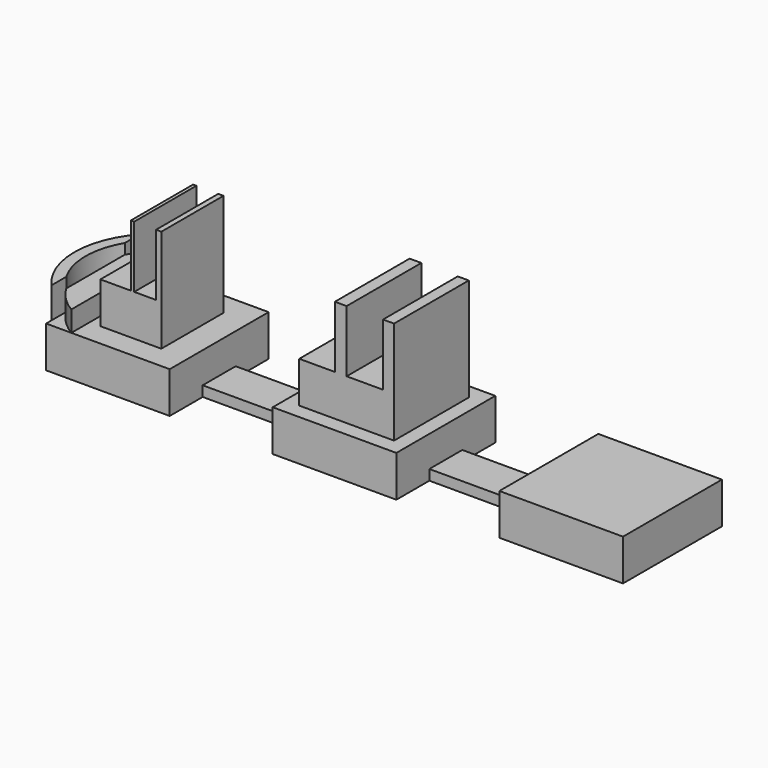
from build123d import *

# Parameters (mm, degrees)
F0_W      = 15
F0_H      = 10
F1_DEPTH  = 10
F0_W_2    = 25
F2_DEPTH  = 2.5
F4_DEPTH  = 5
F5_DEPTH  = 7.5
F6_W      = 0.8094720542
F6_H      = 18.8618451357
F6_W_2    = 1.2870579958
F7_DEPTH  = 25
F6_W_3    = 7.3937214911
F6_W_4    = 5.2971914411
F8_DEPTH  = 10
F9_W      = 2.8573467862
F9_H      = 22.6669162512
F9_W_2    = 2.6768604293
F10_DEPTH = 25
F9_W_3    = 8.6461429019
F9_W_4    = 8.8266292587
F11_DEPTH = 10


with BuildPart() as f1:
    # F0 (on Top) → F1 (new body)
    with BuildSketch(Plane.XY):
        Polygon((-55, 5), (-40, 5), (-40, 15), (-70, 15), (-70, -15), (-40, -15), (-40, -5), (-55, -5), align=None)
        with Locations((-47.5, 0)):
            Rectangle(F0_W, F0_H)
    extrude(amount=F1_DEPTH)

    # F3 (on face) → F4 (join)
    with BuildSketch(Plane.XY.offset(10)):
        with BuildLine():
            Line((-63.8738188665, -15), (-63.8738188665, 15))
            ThreePointArc((-63.8738188665, 15), (-67.3236492419, 12.3236492419), (-70, 8.8738188665))
            Line((-70, 8.8738188665), (-70, -8.8738188665))
            ThreePointArc((-70, -8.8738188665), (-67.3236492419, -12.3236492419), (-63.8738188665, -15))
        make_face()
    extrude(amount=F4_DEPTH)

    # F6 (on face) → F7 (join)
    with BuildSketch(Plane.XY.offset(10)):
        with Locations((-53.4769240767, 0)):
            Rectangle(F6_W, F6_H)
        with Locations((-47.1314676106, 0)):
            Rectangle(F6_W_2, F6_H)
    extrude(amount=F7_DEPTH)

    # F6 (on face) → F8 (join)
    with BuildSketch(Plane.XY.offset(10)):
        with Locations((-57.5785208493, 0)):
            Rectangle(F6_W_3, F6_H)
        with Locations((-50.423592329, 0)):
            Rectangle(F6_W_4, F6_H)
    extrude(amount=F8_DEPTH)


with BuildPart() as f1b:
    # F0 (on Top) → F1, piece 2 (new body)
    with BuildSketch(Plane.XY):
        with Locations((-7.5, -10)):
            Rectangle(F0_W, F0_H)
        with Locations((-7.5, 10)):
            Rectangle(F0_W, F0_H)
        with Locations((7.5, 10)):
            Rectangle(F0_W, F0_H)
        with Locations((7.5, -10)):
            Rectangle(F0_W, F0_H)
        with Locations((-7.5, 0)):
            Rectangle(F0_W, F0_H)
        with Locations((7.5, 0)):
            Rectangle(F0_W, F0_H)
    extrude(amount=F1_DEPTH)

    # F9 (on face) → F10 (join)
    with BuildSketch(Plane.XY.offset(10)):
        with Locations((-1.4286733931, 0)):
            Rectangle(F9_W, F9_H)
        with Locations((10.1650594734, 0)):
            Rectangle(F9_W_2, F9_H)
    extrude(amount=F10_DEPTH)

    # F9 (on face) → F11 (join)
    with BuildSketch(Plane.XY.offset(10)):
        with Locations((-7.1804182371, 0)):
            Rectangle(F9_W_3, F9_H)
        with Locations((4.4133146293, 0)):
            Rectangle(F9_W_4, F9_H)
    extrude(amount=F11_DEPTH)


with BuildPart() as f1c:
    # F0 (on Top) → F1, piece 3 (new body)
    with BuildSketch(Plane.XY):
        Polygon((40, 15), (40, 5), (55, 5), (55, -5), (40, -5), (40, -15), (70, -15), (70, 15), align=None)
        with Locations((47.5, 0)):
            Rectangle(F0_W, F0_H)
    extrude(amount=F1_DEPTH)


with BuildPart() as f2:
    # F0 (on Top) → F2 (new body)
    with BuildSketch(Plane.XY):
        with Locations((-27.5, 0)):
            Rectangle(F0_W_2, F0_H)
    extrude(amount=F2_DEPTH)


with BuildPart() as f2b:
    # F0 (on Top) → F2, piece 2 (new body)
    with BuildSketch(Plane.XY):
        with Locations((27.5, 0)):
            Rectangle(F0_W_2, F0_H)
    extrude(amount=F2_DEPTH)


with BuildPart() as f5:
    # F3 (on face) → F5 (new body)
    with BuildSketch(Plane.XY.offset(10)):
        with BuildLine():
            Line((-70, 8.8738188665), (-70, 13.3890557198))
            ThreePointArc((-70, 13.3890557198), (-75.1063873699, 0), (-70, -13.3890557198))
            Line((-70, -13.3890557198), (-70, -8.8738188665))
            ThreePointArc((-70, -8.8738188665), (-72.4282718959, 0), (-70, 8.8738188665))
        make_face()
    extrude(amount=F5_DEPTH)


solid = Compound([f1.part, f1b.part, f1c.part, f2.part, f2b.part, f5.part])
